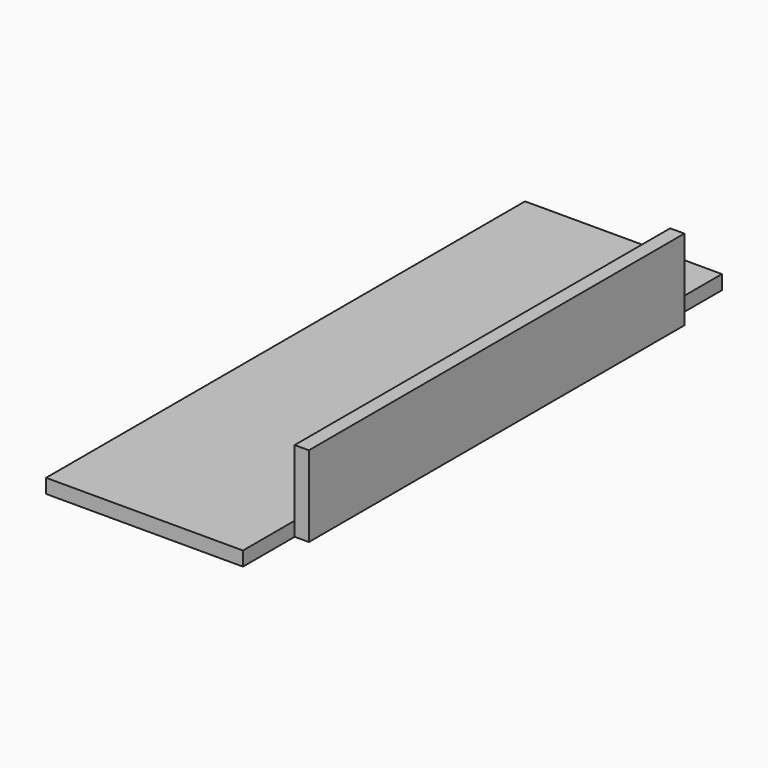
from build123d import *

# Parameters (mm, degrees)
F1_DEPTH = 1.1176
F2_W     = 36.874799
F2_H     = 6.35
F3_DEPTH = 1.1176


with BuildPart() as f1:
    # F0 (on Top) → F1 (new body)
    with BuildSketch(Plane.XY):
        Polygon((10.248203, 31.731885), (-5.220397, 31.731885), (-5.220397, -15.308915), (10.248203, -15.308915), (10.248203, -10.228915), (10.248203, 26.651885), align=None)
    extrude(amount=F1_DEPTH)

    # F2 (on face) → F3 (join)
    with BuildSketch(Plane.YZ.offset(10.248203)):
        with Locations((8.208485, 3.175)):
            Rectangle(F2_W, F2_H)
    extrude(amount=F3_DEPTH)


solid = f1.part
